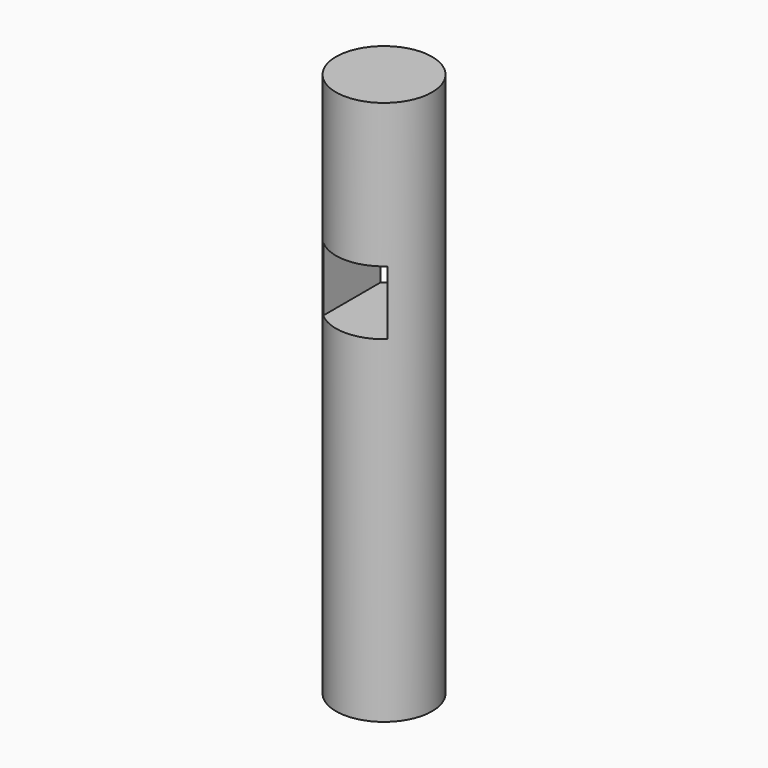
from build123d import *

# Parameters (mm, degrees)
F0_R          = 15
F1_DEPTH      = 120
F1_DEPTH_BACK = 50
F2_W          = 20
F2_H          = 20
F3_DEPTH      = 50


with BuildPart() as f1:
    # F0 (on Top) → F1 (new body, two sides)
    with BuildSketch(Plane.XY) as f1_sk:
        Circle(F0_R)
    extrude(amount=F1_DEPTH)
    extrude(f1_sk.sketch, amount=-F1_DEPTH_BACK)

    # F2 (on Front) → F3 (cut, symmetric)
    with BuildSketch(Plane.XZ):
        with Locations((0, 65.110011)):
            Rectangle(F2_W, F2_H)
    extrude(amount=F3_DEPTH, both=True, mode=Mode.SUBTRACT)


solid = f1.part
